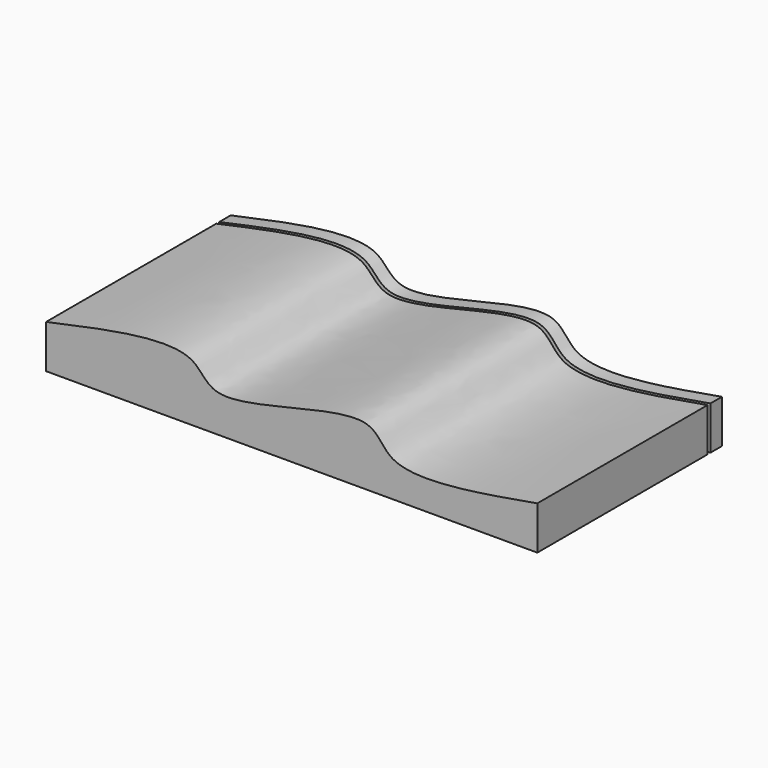
from build123d import *

# Parameters (mm, degrees)
F1_DEPTH = 203.2
F2_W     = 432.5398057699
F2_H     = 3.175
F3_DEPTH = 55.0218457392


with BuildPart() as f1:
    # F0 (on Front) → F1 (new body)
    with BuildSketch(Plane.XZ):
        with BuildLine():
            add(Edge.make_bspline(
                [(-295.5214083195, 38.2318720222), (-242.1279943709, 49.8393709987), (-162.1656345941, 67.2228447389), (-151.6372183434, 13.1784904765), (-5.6494107368, 71.3260828545), (2.9575029911, 14.8026041183), (83.4499207347, 28.8699309637), (137.0183974504, 38.2318720222)],
                knots=[0, 0, 0, 0, 0.2500860467, 0.3745306577, 0.6248669042, 0.7503453236, 1, 1, 1, 1], degree=3))
            Line((-295.5214083195, 38.2318720222), (-295.5214083195, 0))
            Line((-295.5214083195, 0), (137.0183974504, 0))
            Line((137.0183974504, 0), (137.0183974504, 38.2318720222))
        make_face()
    extrude(amount=F1_DEPTH)

    # F2 (on face) → F3 (cut, through all)
    with BuildSketch(Plane(origin=(0, 0, 0), x_dir=(1, 0, 0), z_dir=(0, 0, -1))):
        with Locations((-79.2515054345, 14.2875)):
            Rectangle(F2_W, F2_H)
    extrude(amount=-F3_DEPTH, mode=Mode.SUBTRACT)


solid = f1.part
